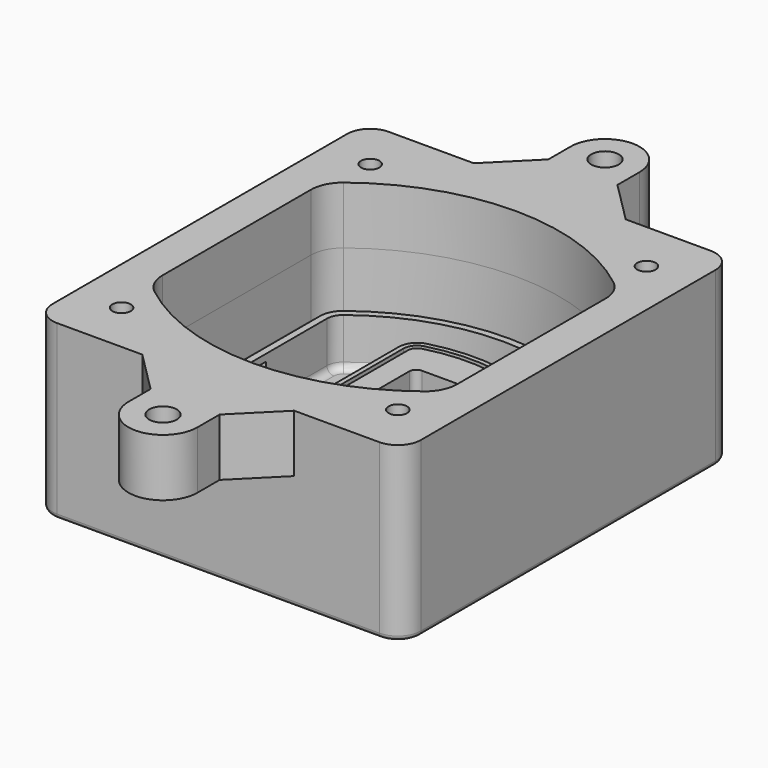
from build123d import *

# Parameters (mm, degrees)
F0_R       = 4
F1_DEPTH   = 25
F2_DEPTH   = 3
F3_DEPTH   = 1
F4_DEPTH   = 18
F6_DEPTH   = 21
F7_DEPTH   = 2
F9_DEPTH   = 20
F10_DEPTH  = 16
F11_DEPTH  = 25
F8_R       = 6
F8_R_2     = 4
F12_DEPTH  = 6
F14_DEPTH  = 9
F15_R      = 3
F16_R      = 2
F2_FACE1_R = 4
F17_DEPTH  = 25
F18_R      = 4
F18_R_2    = 6
F19_DEPTH  = 25


with BuildPart() as f1:
    # F0 (on Top) → F1 (new body)
    with BuildSketch(Plane.XY):
        with BuildLine():
            ThreePointArc((-80, -80), (-77.0710678119, -87.0710678119), (-70, -90))
            Line((-70, -90), (70, -90))
            ThreePointArc((70, -90), (77.0710678119, -87.0710678119), (80, -80))
            Line((80, -80), (80, 80))
            ThreePointArc((80, 80), (77.0710678119, 87.0710678119), (70, 90))
            Line((70, 90), (-70, 90))
            ThreePointArc((-70, 90), (-77.0710678119, 87.0710678119), (-80, 80))
            Line((-80, 80), (-80, -80))
        make_face()
        with Locations((-60, -67.5)):
            Circle(F0_R, mode=Mode.SUBTRACT)
        with Locations((60, -67.5)):
            Circle(F0_R, mode=Mode.SUBTRACT)
        with Locations((-60, 67.5)):
            Circle(F0_R, mode=Mode.SUBTRACT)
        with BuildLine():
            ThreePointArc((-64, 40.2934422872), (-62.5820384798, 46.4328484224), (-58.6153846154, 51.3286200352))
            ThreePointArc((-58.6153846154, 51.3286200352), (0, 71.5), (58.6153846154, 51.3286200352))
            ThreePointArc((58.6153846154, 51.3286200352), (62.5820384798, 46.4328484224), (64, 40.2934422872))
            Line((64, 40.2934422872), (64, -40.2934422872))
            ThreePointArc((64, -40.2934422872), (62.5820384798, -46.4328484224), (58.6153846154, -51.3286200352))
            ThreePointArc((58.6153846154, -51.3286200352), (0, -71.5), (-58.6153846154, -51.3286200352))
            ThreePointArc((-58.6153846154, -51.3286200352), (-62.5820384798, -46.4328484224), (-64, -40.2934422872))
            Line((-64, -40.2934422872), (-64, 40.2934422872))
        make_face(mode=Mode.SUBTRACT)
        with Locations((60, 67.5)):
            Circle(F0_R, mode=Mode.SUBTRACT)
        with BuildLine():
            ThreePointArc((58.6153846154, 51.3286200352), (0, 71.5), (-58.6153846154, 51.3286200352))
            ThreePointArc((-58.6153846154, 51.3286200352), (-62.5820384798, 46.4328484224), (-64, 40.2934422872))
            Line((-64, 40.2934422872), (-64, -40.2934422872))
            ThreePointArc((-64, -40.2934422872), (-62.5820384798, -46.4328484224), (-58.6153846154, -51.3286200352))
            ThreePointArc((-58.6153846154, -51.3286200352), (0, -71.5), (58.6153846154, -51.3286200352))
            ThreePointArc((58.6153846154, -51.3286200352), (62.5820384798, -46.4328484224), (64, -40.2934422872))
            Line((64, -40.2934422872), (64, 40.2934422872))
            ThreePointArc((64, 40.2934422872), (62.5820384798, 46.4328484224), (58.6153846154, 51.3286200352))
        make_face()
        with BuildLine():
            Line((-60, -40.2934422872), (-60, 40.2934422872))
            ThreePointArc((-60, 40.2934422872), (-58.9871703427, 44.6787323838), (-56.1538461538, 48.1757121072))
            ThreePointArc((-56.1538461538, 48.1757121072), (0, 67.5), (56.1538461538, 48.1757121072))
            ThreePointArc((56.1538461538, 48.1757121072), (58.9871703427, 44.6787323838), (60, 40.2934422872))
            Line((60, 40.2934422872), (60, -40.2934422872))
            ThreePointArc((60, -40.2934422872), (58.9871703427, -44.6787323838), (56.1538461538, -48.1757121072))
            ThreePointArc((56.1538461538, -48.1757121072), (0, -67.5), (-56.1538461538, -48.1757121072))
            ThreePointArc((-56.1538461538, -48.1757121072), (-58.9871703427, -44.6787323838), (-60, -40.2934422872))
        make_face(mode=Mode.SUBTRACT)
        with BuildLine():
            ThreePointArc((-56.1538461538, 48.1757121072), (-58.9871703427, 44.6787323838), (-60, 40.2934422872))
            Line((-60, 40.2934422872), (-60, -40.2934422872))
            ThreePointArc((-60, -40.2934422872), (-58.9871703427, -44.6787323838), (-56.1538461538, -48.1757121072))
            ThreePointArc((-56.1538461538, -48.1757121072), (0, -67.5), (56.1538461538, -48.1757121072))
            ThreePointArc((56.1538461538, -48.1757121072), (58.9871703427, -44.6787323838), (60, -40.2934422872))
            Line((60, -40.2934422872), (60, 40.2934422872))
            ThreePointArc((60, 40.2934422872), (58.9871703427, 44.6787323838), (56.1538461538, 48.1757121072))
            ThreePointArc((56.1538461538, 48.1757121072), (0, 67.5), (-56.1538461538, 48.1757121072))
        make_face()
        with BuildLine():
            ThreePointArc((54.3076923077, 45.8110311612), (56.2910192399, 43.3631453548), (57, 40.2934422872))
            Line((57, 40.2934422872), (57, -40.2934422872))
            ThreePointArc((57, -40.2934422872), (56.2910192399, -43.3631453548), (54.3076923077, -45.8110311612))
            ThreePointArc((54.3076923077, -45.8110311612), (0, -64.5), (-54.3076923077, -45.8110311612))
            ThreePointArc((-54.3076923077, -45.8110311612), (-56.2910192399, -43.3631453548), (-57, -40.2934422872))
            Line((-57, -40.2934422872), (-57, 40.2934422872))
            ThreePointArc((-57, 40.2934422872), (-56.2910192399, 43.3631453548), (-54.3076923077, 45.8110311612))
            ThreePointArc((-54.3076923077, 45.8110311612), (0, 64.5), (54.3076923077, 45.8110311612))
        make_face(mode=Mode.SUBTRACT)
        with BuildLine():
            Line((57, -40.2934422872), (57, 40.2934422872))
            ThreePointArc((57, 40.2934422872), (56.2910192399, 43.3631453548), (54.3076923077, 45.8110311612))
            ThreePointArc((54.3076923077, 45.8110311612), (0, 64.5), (-54.3076923077, 45.8110311612))
            ThreePointArc((-54.3076923077, 45.8110311612), (-56.2910192399, 43.3631453548), (-57, 40.2934422872))
            Line((-57, 40.2934422872), (-57, -40.2934422872))
            ThreePointArc((-57, -40.2934422872), (-56.2910192399, -43.3631453548), (-54.3076923077, -45.8110311612))
            ThreePointArc((-54.3076923077, -45.8110311612), (0, -64.5), (54.3076923077, -45.8110311612))
            ThreePointArc((54.3076923077, -45.8110311612), (56.2910192399, -43.3631453548), (57, -40.2934422872))
        make_face()
    extrude(amount=-F1_DEPTH)

    # F0 (on Top) → F2 (join)
    with BuildSketch(Plane.XY):
        with BuildLine():
            ThreePointArc((-56.1538461538, 48.1757121072), (-58.9871703427, 44.6787323838), (-60, 40.2934422872))
            Line((-60, 40.2934422872), (-60, -40.2934422872))
            ThreePointArc((-60, -40.2934422872), (-58.9871703427, -44.6787323838), (-56.1538461538, -48.1757121072))
            ThreePointArc((-56.1538461538, -48.1757121072), (0, -67.5), (56.1538461538, -48.1757121072))
            ThreePointArc((56.1538461538, -48.1757121072), (58.9871703427, -44.6787323838), (60, -40.2934422872))
            Line((60, -40.2934422872), (60, 40.2934422872))
            ThreePointArc((60, 40.2934422872), (58.9871703427, 44.6787323838), (56.1538461538, 48.1757121072))
            ThreePointArc((56.1538461538, 48.1757121072), (0, 67.5), (-56.1538461538, 48.1757121072))
        make_face()
        with BuildLine():
            ThreePointArc((54.3076923077, 45.8110311612), (56.2910192399, 43.3631453548), (57, 40.2934422872))
            Line((57, 40.2934422872), (57, -40.2934422872))
            ThreePointArc((57, -40.2934422872), (56.2910192399, -43.3631453548), (54.3076923077, -45.8110311612))
            ThreePointArc((54.3076923077, -45.8110311612), (0, -64.5), (-54.3076923077, -45.8110311612))
            ThreePointArc((-54.3076923077, -45.8110311612), (-56.2910192399, -43.3631453548), (-57, -40.2934422872))
            Line((-57, -40.2934422872), (-57, 40.2934422872))
            ThreePointArc((-57, 40.2934422872), (-56.2910192399, 43.3631453548), (-54.3076923077, 45.8110311612))
            ThreePointArc((-54.3076923077, 45.8110311612), (0, 64.5), (54.3076923077, 45.8110311612))
        make_face(mode=Mode.SUBTRACT)
    extrude(amount=F2_DEPTH)

    # F0 (on Top) → F3 (cut)
    with BuildSketch(Plane.XY):
        with BuildLine():
            ThreePointArc((58.6153846154, 51.3286200352), (0, 71.5), (-58.6153846154, 51.3286200352))
            ThreePointArc((-58.6153846154, 51.3286200352), (-62.5820384798, 46.4328484224), (-64, 40.2934422872))
            Line((-64, 40.2934422872), (-64, -40.2934422872))
            ThreePointArc((-64, -40.2934422872), (-62.5820384798, -46.4328484224), (-58.6153846154, -51.3286200352))
            ThreePointArc((-58.6153846154, -51.3286200352), (0, -71.5), (58.6153846154, -51.3286200352))
            ThreePointArc((58.6153846154, -51.3286200352), (62.5820384798, -46.4328484224), (64, -40.2934422872))
            Line((64, -40.2934422872), (64, 40.2934422872))
            ThreePointArc((64, 40.2934422872), (62.5820384798, 46.4328484224), (58.6153846154, 51.3286200352))
        make_face()
        with BuildLine():
            Line((-60, -40.2934422872), (-60, 40.2934422872))
            ThreePointArc((-60, 40.2934422872), (-58.9871703427, 44.6787323838), (-56.1538461538, 48.1757121072))
            ThreePointArc((-56.1538461538, 48.1757121072), (0, 67.5), (56.1538461538, 48.1757121072))
            ThreePointArc((56.1538461538, 48.1757121072), (58.9871703427, 44.6787323838), (60, 40.2934422872))
            Line((60, 40.2934422872), (60, -40.2934422872))
            ThreePointArc((60, -40.2934422872), (58.9871703427, -44.6787323838), (56.1538461538, -48.1757121072))
            ThreePointArc((56.1538461538, -48.1757121072), (0, -67.5), (-56.1538461538, -48.1757121072))
            ThreePointArc((-56.1538461538, -48.1757121072), (-58.9871703427, -44.6787323838), (-60, -40.2934422872))
        make_face(mode=Mode.SUBTRACT)
    extrude(amount=-F3_DEPTH, mode=Mode.SUBTRACT)

    # F0 (on Top) → F4 (cut)
    with BuildSketch(Plane.XY):
        with BuildLine():
            Line((57, -40.2934422872), (57, 40.2934422872))
            ThreePointArc((57, 40.2934422872), (56.2910192399, 43.3631453548), (54.3076923077, 45.8110311612))
            ThreePointArc((54.3076923077, 45.8110311612), (0, 64.5), (-54.3076923077, 45.8110311612))
            ThreePointArc((-54.3076923077, 45.8110311612), (-56.2910192399, 43.3631453548), (-57, 40.2934422872))
            Line((-57, 40.2934422872), (-57, -40.2934422872))
            ThreePointArc((-57, -40.2934422872), (-56.2910192399, -43.3631453548), (-54.3076923077, -45.8110311612))
            ThreePointArc((-54.3076923077, -45.8110311612), (0, -64.5), (54.3076923077, -45.8110311612))
            ThreePointArc((54.3076923077, -45.8110311612), (56.2910192399, -43.3631453548), (57, -40.2934422872))
        make_face()
    extrude(amount=-F4_DEPTH, mode=Mode.SUBTRACT)

    # F5 (on face) → F6 (join, through all)
    with BuildSketch(Plane.XY.offset(3)):
        with BuildLine():
            ThreePointArc((-25, -39.2465276821), (-23.3511545998, -44.1109737193), (-19.0842911877, -46.9702398883))
            ThreePointArc((-19.0842911877, -46.9702398883), (0, -49.5), (19.0842911877, -46.9702398883))
            ThreePointArc((19.0842911877, -46.9702398883), (23.3511545998, -44.1109737193), (25, -39.2465276821))
            Line((25, -39.2465276821), (25, 39.2465276821))
            ThreePointArc((25, 39.2465276821), (23.3511545998, 44.1109737193), (19.0842911877, 46.9702398883))
            ThreePointArc((19.0842911877, 46.9702398883), (0, 49.5), (-19.0842911877, 46.9702398883))
            ThreePointArc((-19.0842911877, 46.9702398883), (-23.3511545998, 44.1109737193), (-25, 39.2465276821))
            Line((-25, 39.2465276821), (-25, -39.2465276821))
        make_face()
        with BuildLine():
            ThreePointArc((18.5632183908, 45.0393118368), (21.7633659499, 42.89486221), (23, 39.2465276821))
            Line((23, 39.2465276821), (23, -39.2465276821))
            ThreePointArc((23, -39.2465276821), (21.7633659499, -42.89486221), (18.5632183908, -45.0393118368))
            ThreePointArc((18.5632183908, -45.0393118368), (0, -47.5), (-18.5632183908, -45.0393118368))
            ThreePointArc((-18.5632183908, -45.0393118368), (-21.7633659499, -42.89486221), (-23, -39.2465276821))
            Line((-23, -39.2465276821), (-23, 39.2465276821))
            ThreePointArc((-23, 39.2465276821), (-21.7633659499, 42.89486221), (-18.5632183908, 45.0393118368))
            ThreePointArc((-18.5632183908, 45.0393118368), (0, 47.5), (18.5632183908, 45.0393118368))
        make_face(mode=Mode.SUBTRACT)
        with BuildLine():
            Line((23, -39.2465276821), (23, 39.2465276821))
            ThreePointArc((23, 39.2465276821), (21.7633659499, 42.89486221), (18.5632183908, 45.0393118368))
            ThreePointArc((18.5632183908, 45.0393118368), (0, 47.5), (-18.5632183908, 45.0393118368))
            ThreePointArc((-18.5632183908, 45.0393118368), (-21.7633659499, 42.89486221), (-23, 39.2465276821))
            Line((-23, 39.2465276821), (-23, -39.2465276821))
            ThreePointArc((-23, -39.2465276821), (-21.7633659499, -42.89486221), (-18.5632183908, -45.0393118368))
            ThreePointArc((-18.5632183908, -45.0393118368), (0, -47.5), (18.5632183908, -45.0393118368))
            ThreePointArc((18.5632183908, -45.0393118368), (21.7633659499, -42.89486221), (23, -39.2465276821))
        make_face()
        with BuildLine():
            ThreePointArc((18.0421455939, 43.1083837852), (20.1755772999, 41.6787507007), (21, 39.2465276821))
            Line((21, 39.2465276821), (21, -39.2465276821))
            ThreePointArc((21, -39.2465276821), (20.1755772999, -41.6787507007), (18.0421455939, -43.1083837852))
            ThreePointArc((18.0421455939, -43.1083837852), (0, -45.5), (-18.0421455939, -43.1083837852))
            ThreePointArc((-18.0421455939, -43.1083837852), (-20.1755772999, -41.6787507007), (-21, -39.2465276821))
            Line((-21, -39.2465276821), (-21, 39.2465276821))
            ThreePointArc((-21, 39.2465276821), (-20.1755772999, 41.6787507007), (-18.0421455939, 43.1083837852))
            ThreePointArc((-18.0421455939, 43.1083837852), (0, 45.5), (18.0421455939, 43.1083837852))
        make_face(mode=Mode.SUBTRACT)
        with BuildLine():
            Line((21, -39.2465276821), (21, 39.2465276821))
            ThreePointArc((21, 39.2465276821), (20.1755772999, 41.6787507007), (18.0421455939, 43.1083837852))
            ThreePointArc((18.0421455939, 43.1083837852), (0, 45.5), (-18.0421455939, 43.1083837852))
            ThreePointArc((-18.0421455939, 43.1083837852), (-20.1755772999, 41.6787507007), (-21, 39.2465276821))
            Line((-21, 39.2465276821), (-21, -39.2465276821))
            ThreePointArc((-21, -39.2465276821), (-20.1755772999, -41.6787507007), (-18.0421455939, -43.1083837852))
            ThreePointArc((-18.0421455939, -43.1083837852), (0, -45.5), (18.0421455939, -43.1083837852))
            ThreePointArc((18.0421455939, -43.1083837852), (20.1755772999, -41.6787507007), (21, -39.2465276821))
        make_face()
        with BuildLine():
            Line((-8, -2.5), (14, -2.5))
            ThreePointArc((14, -2.5), (16.1213203436, -3.3786796564), (17, -5.5))
            Line((17, -5.5), (17, -7.5))
            ThreePointArc((17, -7.5), (16.1213203436, -9.6213203436), (14, -10.5))
            ThreePointArc((14, -10.5), (11.8786796564, -11.3786796564), (11, -13.5))
            Line((11, -13.5), (11, -27.5))
            ThreePointArc((11, -27.5), (10.1213203436, -29.6213203436), (8, -30.5))
            Line((8, -30.5), (-8, -30.5))
            ThreePointArc((-8, -30.5), (-10.1213203436, -29.6213203436), (-11, -27.5))
            Line((-11, -27.5), (-11, -5.5))
            ThreePointArc((-11, -5.5), (-10.1213203436, -3.3786796564), (-8, -2.5))
        make_face(mode=Mode.SUBTRACT)
        with BuildLine():
            ThreePointArc((-8, 2.5), (-10.1213203436, 3.3786796564), (-11, 5.5))
            Line((-11, 5.5), (-11, 27.5))
            ThreePointArc((-11, 27.5), (-10.1213203436, 29.6213203436), (-8, 30.5))
            Line((-8, 30.5), (8, 30.5))
            ThreePointArc((8, 30.5), (10.1213203436, 29.6213203436), (11, 27.5))
            Line((11, 27.5), (11, 13.5))
            ThreePointArc((11, 13.5), (11.8786796564, 11.3786796564), (14, 10.5))
            ThreePointArc((14, 10.5), (16.1213203436, 9.6213203436), (17, 7.5))
            Line((17, 7.5), (17, 5.5))
            ThreePointArc((17, 5.5), (16.1213203436, 3.3786796564), (14, 2.5))
            Line((14, 2.5), (-8, 2.5))
        make_face(mode=Mode.SUBTRACT)
    extrude(amount=-F6_DEPTH)

    # F5 (on face) → F7 (cut)
    with BuildSketch(Plane.XY.offset(3)):
        with BuildLine():
            Line((23, -39.2465276821), (23, 39.2465276821))
            ThreePointArc((23, 39.2465276821), (21.7633659499, 42.89486221), (18.5632183908, 45.0393118368))
            ThreePointArc((18.5632183908, 45.0393118368), (0, 47.5), (-18.5632183908, 45.0393118368))
            ThreePointArc((-18.5632183908, 45.0393118368), (-21.7633659499, 42.89486221), (-23, 39.2465276821))
            Line((-23, 39.2465276821), (-23, -39.2465276821))
            ThreePointArc((-23, -39.2465276821), (-21.7633659499, -42.89486221), (-18.5632183908, -45.0393118368))
            ThreePointArc((-18.5632183908, -45.0393118368), (0, -47.5), (18.5632183908, -45.0393118368))
            ThreePointArc((18.5632183908, -45.0393118368), (21.7633659499, -42.89486221), (23, -39.2465276821))
        make_face()
        with BuildLine():
            ThreePointArc((18.0421455939, 43.1083837852), (20.1755772999, 41.6787507007), (21, 39.2465276821))
            Line((21, 39.2465276821), (21, -39.2465276821))
            ThreePointArc((21, -39.2465276821), (20.1755772999, -41.6787507007), (18.0421455939, -43.1083837852))
            ThreePointArc((18.0421455939, -43.1083837852), (0, -45.5), (-18.0421455939, -43.1083837852))
            ThreePointArc((-18.0421455939, -43.1083837852), (-20.1755772999, -41.6787507007), (-21, -39.2465276821))
            Line((-21, -39.2465276821), (-21, 39.2465276821))
            ThreePointArc((-21, 39.2465276821), (-20.1755772999, 41.6787507007), (-18.0421455939, 43.1083837852))
            ThreePointArc((-18.0421455939, 43.1083837852), (0, 45.5), (18.0421455939, 43.1083837852))
        make_face(mode=Mode.SUBTRACT)
    extrude(amount=-F7_DEPTH, mode=Mode.SUBTRACT)

    # F8 (on face) → F9 (join)
    with BuildSketch(Plane(origin=(0, 0, -25), x_dir=(1, 0, 0), z_dir=(0, 0, -1))):
        with BuildLine():
            ThreePointArc((3.28842436, 0), (16.7567035675, 13.4682792075), (30.224982775, 0))
            Line((30.224982775, 0), (35.224982775, 0))
            ThreePointArc((35.224982775, 0), (16.7567035675, 18.4682792075), (-1.71157564, 0))
            Line((-1.71157564, 0), (3.28842436, 0))
        make_face()
        with BuildLine():
            Line((3.28842436, 0), (30.224982775, 0))
            ThreePointArc((30.224982775, 0), (16.7567035675, 13.4682792075), (3.28842436, 0))
        make_face()
        with BuildLine():
            ThreePointArc((3.28842436, 0), (16.7567035675, -13.4682792075), (30.224982775, 0))
            Line((30.224982775, 0), (3.28842436, 0))
        make_face()
        with BuildLine():
            Line((35.224982775, 0), (30.224982775, 0))
            ThreePointArc((30.224982775, 0), (16.7567035675, -13.4682792075), (3.28842436, 0))
            Line((3.28842436, 0), (-1.71157564, 0))
            ThreePointArc((-1.71157564, 0), (16.7567035675, -18.4682792075), (35.224982775, 0))
        make_face()
    extrude(amount=-F9_DEPTH)

    # F8 (on face) → F10 (cut)
    with BuildSketch(Plane(origin=(0, 0, -25), x_dir=(1, 0, 0), z_dir=(0, 0, -1))):
        with BuildLine():
            Line((3.28842436, 0), (30.224982775, 0))
            ThreePointArc((30.224982775, 0), (16.7567035675, 13.4682792075), (3.28842436, 0))
        make_face()
        with BuildLine():
            ThreePointArc((3.28842436, 0), (16.7567035675, -13.4682792075), (30.224982775, 0))
            Line((30.224982775, 0), (3.28842436, 0))
        make_face()
    extrude(amount=-F10_DEPTH, mode=Mode.SUBTRACT)

    # F8 (on face) → F11 (cut)
    with BuildSketch(Plane(origin=(0, 0, -25), x_dir=(1, 0, 0), z_dir=(0, 0, -1))):
        with BuildLine():
            Line((-59.0318229325, 0), (-32.0952645175, 0))
            ThreePointArc((-32.0952645175, 0), (-45.563543725, 13.4682792075), (-59.0318229325, 0))
        make_face()
        with BuildLine():
            ThreePointArc((-59.0318229325, 0), (-45.563543725, -13.4682792075), (-32.0952645175, 0))
            Line((-32.0952645175, 0), (-59.0318229325, 0))
        make_face()
    extrude(amount=-F11_DEPTH, mode=Mode.SUBTRACT)

    # F8 (on face) → F12 (cut)
    with BuildSketch(Plane(origin=(0, 0, -25), x_dir=(1, 0, 0), z_dir=(0, 0, -1))):
        with Locations((60, -67.5)):
            Circle(F8_R)
        with Locations((60, -67.5)):
            Circle(F8_R_2, mode=Mode.SUBTRACT)
        with Locations((60, -67.5)):
            Circle(F8_R)
        with Locations((60, -67.5)):
            Circle(F8_R_2, mode=Mode.SUBTRACT)
        with Locations((-60, -67.5)):
            Circle(F8_R)
        with Locations((-60, -67.5)):
            Circle(F8_R_2, mode=Mode.SUBTRACT)
        with Locations((-60, -67.5)):
            Circle(F8_R)
        with Locations((-60, -67.5)):
            Circle(F8_R_2, mode=Mode.SUBTRACT)
        with Locations((-60, 67.5)):
            Circle(F8_R)
        with Locations((-60, 67.5)):
            Circle(F8_R_2, mode=Mode.SUBTRACT)
        with Locations((-60, 67.5)):
            Circle(F8_R)
        with Locations((-60, 67.5)):
            Circle(F8_R_2, mode=Mode.SUBTRACT)
        with Locations((60, 67.5)):
            Circle(F8_R)
        with Locations((60, 67.5)):
            Circle(F8_R_2, mode=Mode.SUBTRACT)
        with Locations((60, 67.5)):
            Circle(F8_R)
        with Locations((60, 67.5)):
            Circle(F8_R_2, mode=Mode.SUBTRACT)
    extrude(amount=-F12_DEPTH, mode=Mode.SUBTRACT)

    # F13 (on face) → F14 (cut, through all)
    with BuildSketch(Plane(origin=(0, 0, -9), x_dir=(1, 0, 0), z_dir=(0, 0, -1))):
        with BuildLine():
            Line((11, 13.5), (11, 17.5481537753))
            ThreePointArc((11, 17.5481537753), (2.5696536419, 11.8239143813), (-1.5415842455, 2.5))
            Line((-1.5415842455, 2.5), (3.5224848595, 2.5))
            ThreePointArc((3.5224848595, 2.5), (6.1857188154, 8.3455872281), (11.2536447004, 12.2927168648))
            ThreePointArc((11.2536447004, 12.2927168648), (11.0640958889, 12.8831798879), (11, 13.5))
        make_face()
        with BuildLine():
            ThreePointArc((11.2536447004, -12.2927168648), (6.1857188154, -8.3455872281), (3.5224848595, -2.5))
            Line((3.5224848595, -2.5), (-1.5415842455, -2.5))
            ThreePointArc((-1.5415842455, -2.5), (2.5696536419, -11.8239143813), (11, -17.5481537753))
            Line((11, -17.5481537753), (11, -13.5))
            ThreePointArc((11, -13.5), (11.0640958889, -12.8831798879), (11.2536447004, -12.2927168648))
        make_face()
        with BuildLine():
            ThreePointArc((11.2536447004, 12.2927168648), (6.1857188154, 8.3455872281), (3.5224848595, 2.5))
            Line((3.5224848595, 2.5), (14, 2.5))
            ThreePointArc((14, 2.5), (16.1213203436, 3.3786796564), (17, 5.5))
            Line((17, 5.5), (17, 7.5))
            ThreePointArc((17, 7.5), (16.1213203436, 9.6213203436), (14, 10.5))
            ThreePointArc((14, 10.5), (12.3601599782, 10.9878446101), (11.2536447004, 12.2927168648))
        make_face()
        with BuildLine():
            Line((14, -2.5), (3.5224848595, -2.5))
            ThreePointArc((3.5224848595, -2.5), (6.1857188154, -8.3455872281), (11.2536447004, -12.2927168648))
            ThreePointArc((11.2536447004, -12.2927168648), (12.3601599782, -10.9878446101), (14, -10.5))
            ThreePointArc((14, -10.5), (16.1213203436, -9.6213203436), (17, -7.5))
            Line((17, -7.5), (17, -5.5))
            ThreePointArc((17, -5.5), (16.1213203436, -3.3786796564), (14, -2.5))
        make_face()
    extrude(amount=F14_DEPTH, mode=Mode.SUBTRACT)

    # F15
    f15_edges = [f1.edges().sort_by_distance(p)[0] for p in [
        (-57, -23.703476, -18),
        (-57, 23.703476, -18),
        (25, 0, -5),
        (25, 16.526506, -11.5),
        (25, -16.526506, -11.5),
        (25, -27.886517, -18),
        (35.224983, 0, -18),
    ]]
    fillet(f15_edges, radius=F15_R)

    # F16
    f16_edges = [f1.edges().sort_by_distance(p)[0] for p in [
        (0, -90, -25),
    ]]
    fillet(f16_edges, radius=F16_R)

    # F2_face1 (on face) + F0 (on Top) → F17 (join)
    with BuildSketch(Plane.XY):
        with BuildLine():
            ThreePointArc((-80, -80), (-77.0710678119, -87.0710678119), (-70, -90))
            Line((-70, -90), (70, -90))
            ThreePointArc((70, -90), (77.0710678119, -87.0710678119), (80, -80))
            Line((80, -80), (80, 80))
            ThreePointArc((80, 80), (77.0710678119, 87.0710678119), (70, 90))
            Line((70, 90), (-70, 90))
            ThreePointArc((-70, 90), (-77.0710678119, 87.0710678119), (-80, 80))
            Line((-80, 80), (-80, -80))
        make_face()
        with Locations((-60, -67.5)):
            Circle(F2_FACE1_R, mode=Mode.SUBTRACT)
        with Locations((60, -67.5)):
            Circle(F2_FACE1_R, mode=Mode.SUBTRACT)
        with Locations((-60, 67.5)):
            Circle(F2_FACE1_R, mode=Mode.SUBTRACT)
        with BuildLine():
            ThreePointArc((-58.6153846154, 51.3286200352), (0, 71.5), (58.6153846154, 51.3286200352))
            ThreePointArc((58.6153846154, 51.3286200352), (62.5820384798, 46.4328484224), (64, 40.2934422872))
            Line((64, 40.2934422872), (64, -40.2934422872))
            ThreePointArc((64, -40.2934422872), (62.5820384798, -46.4328484224), (58.6153846154, -51.3286200352))
            ThreePointArc((58.6153846154, -51.3286200352), (0, -71.5), (-58.6153846154, -51.3286200352))
            ThreePointArc((-58.6153846154, -51.3286200352), (-62.5820384798, -46.4328484224), (-64, -40.2934422872))
            Line((-64, -40.2934422872), (-64, 40.2934422872))
            ThreePointArc((-64, 40.2934422872), (-62.5820384798, 46.4328484224), (-58.6153846154, 51.3286200352))
        make_face(mode=Mode.SUBTRACT)
        with Locations((60, 67.5)):
            Circle(F2_FACE1_R, mode=Mode.SUBTRACT)
    with BuildSketch(Plane.XY):
        with BuildLine():
            ThreePointArc((-80, -80), (-77.0710678119, -87.0710678119), (-70, -90))
            Line((-70, -90), (70, -90))
            ThreePointArc((70, -90), (77.0710678119, -87.0710678119), (80, -80))
            Line((80, -80), (80, 80))
            ThreePointArc((80, 80), (77.0710678119, 87.0710678119), (70, 90))
            Line((70, 90), (-70, 90))
            ThreePointArc((-70, 90), (-77.0710678119, 87.0710678119), (-80, 80))
            Line((-80, 80), (-80, -80))
        make_face()
        with Locations((-60, -67.5)):
            Circle(F0_R, mode=Mode.SUBTRACT)
        with Locations((60, -67.5)):
            Circle(F0_R, mode=Mode.SUBTRACT)
        with Locations((-60, 67.5)):
            Circle(F0_R, mode=Mode.SUBTRACT)
        with BuildLine():
            ThreePointArc((-64, 40.2934422872), (-62.5820384798, 46.4328484224), (-58.6153846154, 51.3286200352))
            ThreePointArc((-58.6153846154, 51.3286200352), (0, 71.5), (58.6153846154, 51.3286200352))
            ThreePointArc((58.6153846154, 51.3286200352), (62.5820384798, 46.4328484224), (64, 40.2934422872))
            Line((64, 40.2934422872), (64, -40.2934422872))
            ThreePointArc((64, -40.2934422872), (62.5820384798, -46.4328484224), (58.6153846154, -51.3286200352))
            ThreePointArc((58.6153846154, -51.3286200352), (0, -71.5), (-58.6153846154, -51.3286200352))
            ThreePointArc((-58.6153846154, -51.3286200352), (-62.5820384798, -46.4328484224), (-64, -40.2934422872))
            Line((-64, -40.2934422872), (-64, 40.2934422872))
        make_face(mode=Mode.SUBTRACT)
        with Locations((60, 67.5)):
            Circle(F0_R, mode=Mode.SUBTRACT)
    extrude(amount=F17_DEPTH)

    # F18 (on face) → F19 (join)
    with BuildSketch(Plane.XY.offset(25)):
        with BuildLine():
            Line((-33, 90), (-70, 90))
            ThreePointArc((-70, 90), (-77.0710678119, 87.0710678119), (-80, 80))
            Line((-80, 80), (-80, -80))
            ThreePointArc((-80, -80), (-77.0710678119, -87.0710678119), (-70, -90))
            Line((-70, -90), (-33, -90))
            Line((-33, -90), (33, -90))
            Line((33, -90), (70, -90))
            ThreePointArc((70, -90), (77.0710678119, -87.0710678119), (80, -80))
            Line((80, -80), (80, 80))
            ThreePointArc((80, 80), (77.0710678119, 87.0710678119), (70, 90))
            Line((70, 90), (33, 90))
            Line((33, 90), (-33, 90))
        make_face()
        with Locations((-60, -67.5)):
            Circle(F18_R, mode=Mode.SUBTRACT)
        with Locations((60, -67.5)):
            Circle(F18_R, mode=Mode.SUBTRACT)
        with Locations((-60, 67.5)):
            Circle(F18_R, mode=Mode.SUBTRACT)
        with BuildLine():
            ThreePointArc((-58.6153846154, 51.3286200352), (0, 71.5), (58.6153846154, 51.3286200352))
            ThreePointArc((58.6153846154, 51.3286200352), (62.5820384798, 46.4328484224), (64, 40.2934422872))
            Line((64, 40.2934422872), (64, -40.2934422872))
            ThreePointArc((64, -40.2934422872), (62.5820384798, -46.4328484224), (58.6153846154, -51.3286200352))
            ThreePointArc((58.6153846154, -51.3286200352), (0, -71.5), (-58.6153846154, -51.3286200352))
            ThreePointArc((-58.6153846154, -51.3286200352), (-62.5820384798, -46.4328484224), (-64, -40.2934422872))
            Line((-64, -40.2934422872), (-64, 40.2934422872))
            ThreePointArc((-64, 40.2934422872), (-62.5820384798, 46.4328484224), (-58.6153846154, 51.3286200352))
        make_face(mode=Mode.SUBTRACT)
        with Locations((60, 67.5)):
            Circle(F18_R, mode=Mode.SUBTRACT)
        with BuildLine():
            Line((-15, 108), (-33, 90))
            Line((-33, 90), (33, 90))
            Line((33, 90), (15, 108))
            Line((15, 108), (15, 120))
            ThreePointArc((15, 120), (0, 135), (-15, 120))
            Line((-15, 120), (-15, 108))
        make_face()
        with Locations((0, 120)):
            Circle(F18_R_2, mode=Mode.SUBTRACT)
        with BuildLine():
            Line((33, -90), (-33, -90))
            Line((-33, -90), (-15, -108))
            Line((-15, -108), (-15, -120))
            ThreePointArc((-15, -120), (0, -135), (15, -120))
            Line((15, -120), (15, -108))
            Line((15, -108), (33, -90))
        make_face()
        with Locations((0, -120)):
            Circle(F18_R_2, mode=Mode.SUBTRACT)
    extrude(amount=F19_DEPTH)


solid = f1.part
